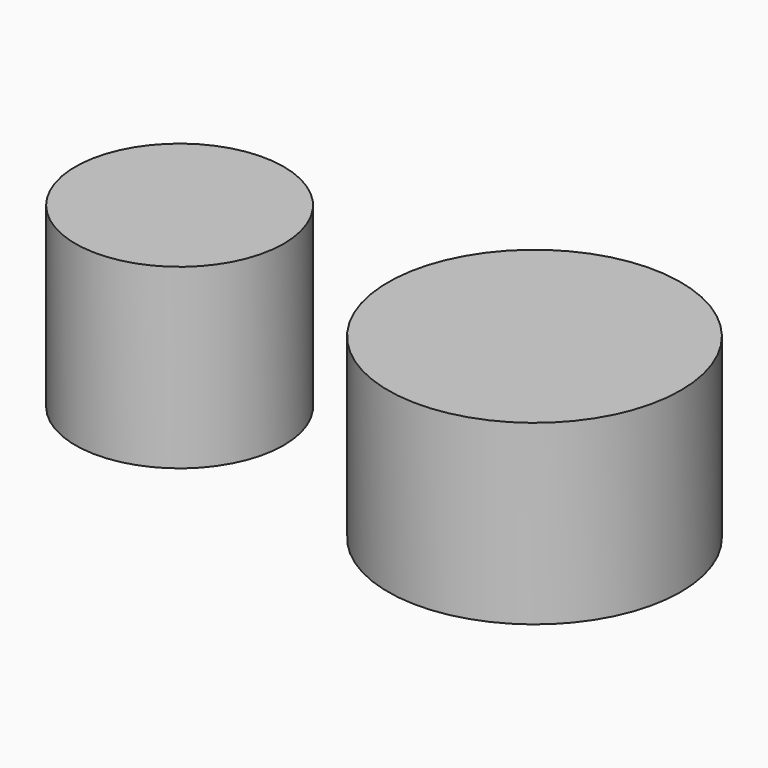
from build123d import *

# Parameters (mm, degrees)
CYLINDER_R        = 2.35
CYLINDER_DEPTH    = 4
CYLINDER001_R     = 3.3
CYLINDER001_DEPTH = 4


with BuildPart() as m3:
    # Cylinder → Cylinder (new body)
    with BuildSketch(Plane.XY):
        Circle(CYLINDER_R)
    extrude(amount=CYLINDER_DEPTH)


with BuildPart() as m5:
    # Cylinder001 → Cylinder001 (new body)
    with BuildSketch(Plane(origin=(8, 0, 0), x_dir=(1, 0, 0), z_dir=(0, 0, 1))):
        Circle(CYLINDER001_R)
    extrude(amount=CYLINDER001_DEPTH)


solid = Compound([m3.part, m5.part])
